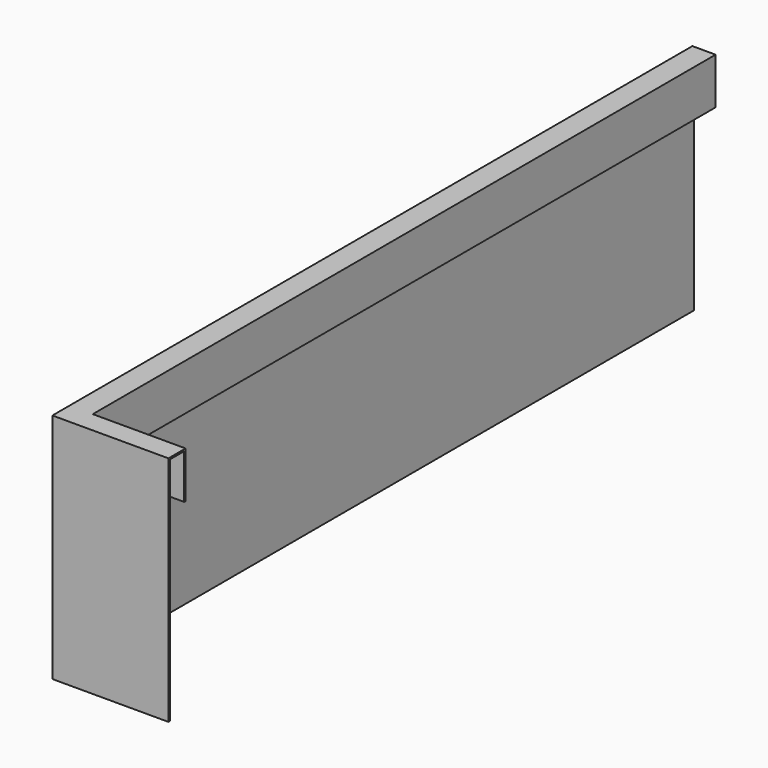
from build123d import *

# Parameters (mm, degrees)
F0_W      = 20
F0_H      = 200
F1_DEPTH  = 688
F2_W      = 18.5
F2_H      = 160
F3_DEPTH  = 688
F4_W      = 17
F4_H      = 38.5
F5_DEPTH  = 688
F6_W      = 100
F6_H      = 200
F7_DEPTH  = 1.5
F8_W      = 17
F8_H      = 40
F9_DEPTH  = 80
F10_W     = 15.5
F10_H     = 38.5
F11_DEPTH = 78.5


with BuildPart() as f1:
    # F0 (on Front) → F1 (new body)
    with BuildSketch(Plane.XZ):
        Rectangle(F0_W, F0_H)
    extrude(amount=F1_DEPTH)

    # F2 (on face) → F3 (cut)
    with BuildSketch(Plane.XZ.offset(688)):
        with Locations((0.75, -20)):
            Rectangle(F2_W, F2_H)
    extrude(amount=-F3_DEPTH, mode=Mode.SUBTRACT)

    # F4 (on face) → F5 (cut)
    with BuildSketch(Plane.XZ.offset(688)):
        with Locations((0, 79.25)):
            Rectangle(F4_W, F4_H)
    extrude(amount=-F5_DEPTH, mode=Mode.SUBTRACT)

    # F6 (on face) → F7 (join)
    with BuildSketch(Plane.XZ.offset(688)):
        with Locations((40, 0)):
            Rectangle(F6_W, F6_H)
    extrude(amount=F7_DEPTH)

    # F8 (on face) → F9 (join)
    with BuildSketch(Plane.YZ.offset(10)):
        with Locations((-679.5, 80)):
            Rectangle(F8_W, F8_H)
    extrude(amount=F9_DEPTH)

    # F10 (on face) → F11 (cut)
    with BuildSketch(Plane.YZ.offset(90)):
        with Locations((-680.25, 79.25)):
            Rectangle(F10_W, F10_H)
    extrude(amount=-F11_DEPTH, mode=Mode.SUBTRACT)


solid = f1.part
